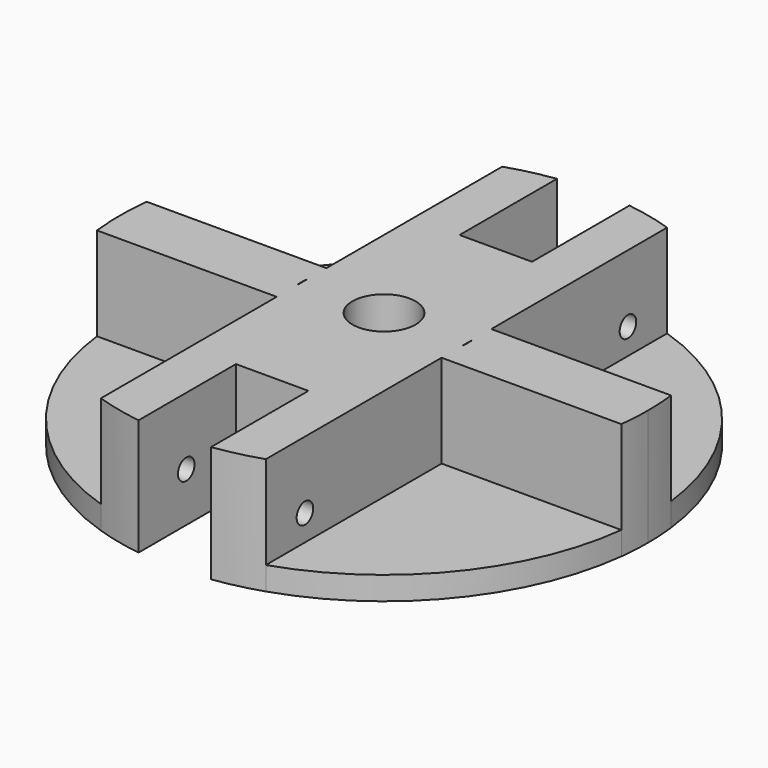
from build123d import *

# Parameters (mm, degrees)
F0_R     = 3.05
F1_DEPTH = 11.25
F2_DEPTH = 2.25
F4_D     = 2
F4_DEPTH = 25.501
F5_D     = 2


with BuildPart() as f1:
    # F0 (on Top) → F1 (new body)
    with BuildSketch(Plane.XY):
        with BuildLine():
            Line((7.9630808905, -0.7676866104), (7.9630808905, 0.7676866104))
            ThreePointArc((7.9630808905, 0.7676866104), (6.5707016234, 4.5635381204), (3.5, 7.193747285))
            Line((3.5, 7.193747285), (3.5, -7.193747285))
            ThreePointArc((3.5, -7.193747285), (6.5707016234, -4.5635381204), (7.9630808905, -0.7676866104))
        make_face()
        with BuildLine():
            Line((3.5, -7.193747285), (3.5, 7.193747285))
            ThreePointArc((3.5, 7.193747285), (0, 8), (-3.5, 7.193747285))
            Line((-3.5, 7.193747285), (-3.5, -7.193747285))
            ThreePointArc((-3.5, -7.193747285), (0, -8), (3.5, -7.193747285))
        make_face()
        Circle(F0_R, mode=Mode.SUBTRACT)
        with BuildLine():
            Line((-3.5, -7.193747285), (-3.5, 7.193747285))
            ThreePointArc((-3.5, 7.193747285), (-6.5707016234, 4.5635381204), (-7.9630808905, 0.7676866104))
            Line((-7.9630808905, 0.7676866104), (-7.9630808905, -0.7676866104))
            ThreePointArc((-7.9630808905, -0.7676866104), (-6.5707016234, -4.5635381204), (-3.5, -7.193747285))
        make_face()
        with BuildLine():
            Line((-3.5, 13.5), (-3.5, 25.2586618806))
            ThreePointArc((-3.5, 25.2586618806), (-5.7548058579, 24.842145832), (-7.9630808905, 24.2247671347))
            Line((-7.9630808905, 24.2247671347), (-7.9630808905, 13.5))
            Line((-7.9630808905, 13.5), (-3.5, 13.5))
        make_face()
        with BuildLine():
            Line((7.9630808905, 13.5), (7.9630808905, 24.2247671347))
            ThreePointArc((7.9630808905, 24.2247671347), (5.7548058579, 24.842145832), (3.5, 25.2586618806))
            Line((3.5, 25.2586618806), (3.5, 13.5))
            Line((3.5, 13.5), (7.9630808905, 13.5))
        make_face()
        with BuildLine():
            ThreePointArc((3.5, -25.2586618806), (5.7548058579, -24.842145832), (7.9630808905, -24.2247671347))
            Line((7.9630808905, -24.2247671347), (7.9630808905, -13.5))
            Line((7.9630808905, -13.5), (3.5, -13.5))
            Line((3.5, -13.5), (3.5, -25.2586618806))
        make_face()
        with BuildLine():
            ThreePointArc((-7.9630808905, -24.2247671347), (-5.7548058579, -24.842145832), (-3.5, -25.2586618806))
            Line((-3.5, -25.2586618806), (-3.5, -13.5))
            Line((-3.5, -13.5), (-7.9630808905, -13.5))
            Line((-7.9630808905, -13.5), (-7.9630808905, -24.2247671347))
        make_face()
        with BuildLine():
            Line((-3.5, 7.193747285), (-3.5, 13.5))
            Line((-3.5, 13.5), (-7.9630808905, 13.5))
            Line((-7.9630808905, 13.5), (-7.9630808905, 3))
            Line((-7.9630808905, 3), (-7.9630808905, 0.7676866104))
            ThreePointArc((-7.9630808905, 0.7676866104), (-6.5707016234, 4.5635381204), (-3.5, 7.193747285))
        make_face()
        with BuildLine():
            Line((7.9630808905, 0.7676866104), (7.9630808905, 3))
            Line((7.9630808905, 3), (7.9630808905, 13.5))
            Line((7.9630808905, 13.5), (3.5, 13.5))
            Line((3.5, 13.5), (3.5, 7.193747285))
            ThreePointArc((3.5, 7.193747285), (6.5707016234, 4.5635381204), (7.9630808905, 0.7676866104))
        make_face()
        with BuildLine():
            Line((7.9630808905, -13.5), (7.9630808905, -3))
            Line((7.9630808905, -3), (7.9630808905, -0.7676866104))
            ThreePointArc((7.9630808905, -0.7676866104), (6.5707016234, -4.5635381204), (3.5, -7.193747285))
            Line((3.5, -7.193747285), (3.5, -13.5))
            Line((3.5, -13.5), (7.9630808905, -13.5))
        make_face()
        with BuildLine():
            Line((-7.9630808905, -13.5), (-3.5, -13.5))
            Line((-3.5, -13.5), (-3.5, -7.193747285))
            ThreePointArc((-3.5, -7.193747285), (-6.5707016234, -4.5635381204), (-7.9630808905, -0.7676866104))
            Line((-7.9630808905, -0.7676866104), (-7.9630808905, -3))
            Line((-7.9630808905, -3), (-7.9630808905, -13.5))
        make_face()
        with BuildLine():
            Line((-7.9630808905, 3), (-25.3229145242, 3))
            ThreePointArc((-25.3229145242, 3), (-25.5, 0), (-25.3229145242, -3))
            Line((-25.3229145242, -3), (-7.9630808905, -3))
            Line((-7.9630808905, -3), (-7.9630808905, -0.7676866104))
            ThreePointArc((-7.9630808905, -0.7676866104), (-8, 0), (-7.9630808905, 0.7676866104))
            Line((-7.9630808905, 0.7676866104), (-7.9630808905, 3))
        make_face()
        with BuildLine():
            ThreePointArc((25.3229145242, -3), (25.4556901337, -1.5026109997), (25.5, 0))
            ThreePointArc((25.5, 0), (25.4556901337, 1.5026109997), (25.3229145242, 3))
            Line((25.3229145242, 3), (7.9630808905, 3))
            Line((7.9630808905, 3), (7.9630808905, 0.7676866104))
            ThreePointArc((7.9630808905, 0.7676866104), (7.9907648922, 0.3842869216), (8, 0))
            ThreePointArc((8, 0), (7.9907648922, -0.3842869216), (7.9630808905, -0.7676866104))
            Line((7.9630808905, -0.7676866104), (7.9630808905, -3))
            Line((7.9630808905, -3), (25.3229145242, -3))
        make_face()
        with BuildLine():
            Line((-3.5, -13.5), (3.5, -13.5))
            Line((3.5, -13.5), (3.5, -7.193747285))
            ThreePointArc((3.5, -7.193747285), (0, -8), (-3.5, -7.193747285))
            Line((-3.5, -7.193747285), (-3.5, -13.5))
        make_face()
        with BuildLine():
            Line((3.5, 7.193747285), (3.5, 13.5))
            Line((3.5, 13.5), (-3.5, 13.5))
            Line((-3.5, 13.5), (-3.5, 7.193747285))
            ThreePointArc((-3.5, 7.193747285), (0, 8), (3.5, 7.193747285))
        make_face()
    extrude(amount=F1_DEPTH)

    # F0 (on Top) → F2 (join)
    with BuildSketch(Plane.XY):
        with BuildLine():
            ThreePointArc((-25.3229145242, -3), (-19.7385931025, -16.1442851292), (-7.9630808905, -24.2247671347))
            Line((-7.9630808905, -24.2247671347), (-7.9630808905, -13.5))
            Line((-7.9630808905, -13.5), (-7.9630808905, -3))
            Line((-7.9630808905, -3), (-25.3229145242, -3))
        make_face()
        with BuildLine():
            Line((-3.5, -13.5), (3.5, -13.5))
            Line((3.5, -13.5), (3.5, -7.193747285))
            ThreePointArc((3.5, -7.193747285), (0, -8), (-3.5, -7.193747285))
            Line((-3.5, -7.193747285), (-3.5, -13.5))
        make_face()
        with BuildLine():
            Line((3.5, 7.193747285), (3.5, 13.5))
            Line((3.5, 13.5), (-3.5, 13.5))
            Line((-3.5, 13.5), (-3.5, 7.193747285))
            ThreePointArc((-3.5, 7.193747285), (0, 8), (3.5, 7.193747285))
        make_face()
        with BuildLine():
            ThreePointArc((7.9630808905, -24.2247671347), (19.7385931025, -16.1442851292), (25.3229145242, -3))
            Line((25.3229145242, -3), (7.9630808905, -3))
            Line((7.9630808905, -3), (7.9630808905, -13.5))
            Line((7.9630808905, -13.5), (7.9630808905, -24.2247671347))
        make_face()
        with BuildLine():
            Line((7.9630808905, 3), (25.3229145242, 3))
            ThreePointArc((25.3229145242, 3), (19.7385931025, 16.1442851292), (7.9630808905, 24.2247671347))
            Line((7.9630808905, 24.2247671347), (7.9630808905, 13.5))
            Line((7.9630808905, 13.5), (7.9630808905, 3))
        make_face()
        with BuildLine():
            Line((-7.9630808905, 13.5), (-7.9630808905, 24.2247671347))
            ThreePointArc((-7.9630808905, 24.2247671347), (-19.7385931025, 16.1442851292), (-25.3229145242, 3))
            Line((-25.3229145242, 3), (-7.9630808905, 3))
            Line((-7.9630808905, 3), (-7.9630808905, 13.5))
        make_face()
    extrude(amount=F2_DEPTH)

    # F4 (through all, one way)
    with BuildSketch(Plane.YZ):
        with Locations((-19.5, 4.75), (19.5, 4.75)):
            Circle(F4_D / 2)
    extrude(amount=-F4_DEPTH, mode=Mode.SUBTRACT)

    # F5 (through all)
    with Locations(Plane(origin=(0, 0, 0), x_dir=(0, 1, 0), z_dir=(-1, 0, 0))):
        with Locations((-19.5, -4.75), (19.5, -4.75)):
            Hole(F5_D / 2)


solid = f1.part
